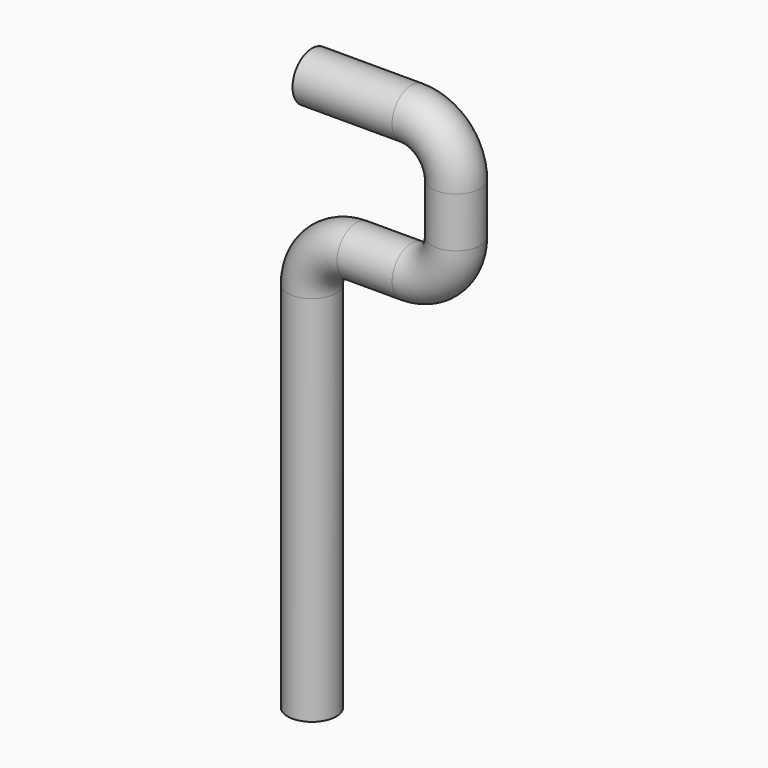
from build123d import *

# Parameters (mm, degrees)
F1_R = 5.468494
F3_T = -2.5


with BuildPart() as f2:
    # F2: sweep along a path in F0
    with BuildLine(Plane.XZ) as f2_path:
        Line((0, 0), (22.379036, 0))
        ThreePointArc((22.379036, 0), (29.450104, -2.928932), (32.379036, -10))
        Line((32.379036, -10), (32.379036, -21.249997))
        ThreePointArc((32.379036, -21.249997), (29.450104, -28.321065), (22.379036, -31.249997))
        Line((22.379036, -31.249997), (10, -31.249997))
        ThreePointArc((10, -31.249997), (2.928932, -34.17893), (0, -41.249997))
        Line((0, -41.249997), (0, -124.983355))
    # F1 (on Right) → F2 (sweep)
    with BuildSketch(Plane.YZ):
        Circle(F1_R)
    sweep(path=f2_path.line)

    # F3
    f3_openings = [f2.faces().sort_by_distance(p)[0] for p in [
        (0, 0, 0),
    ]]
    offset(amount=F3_T, openings=f3_openings)


solid = f2.part
